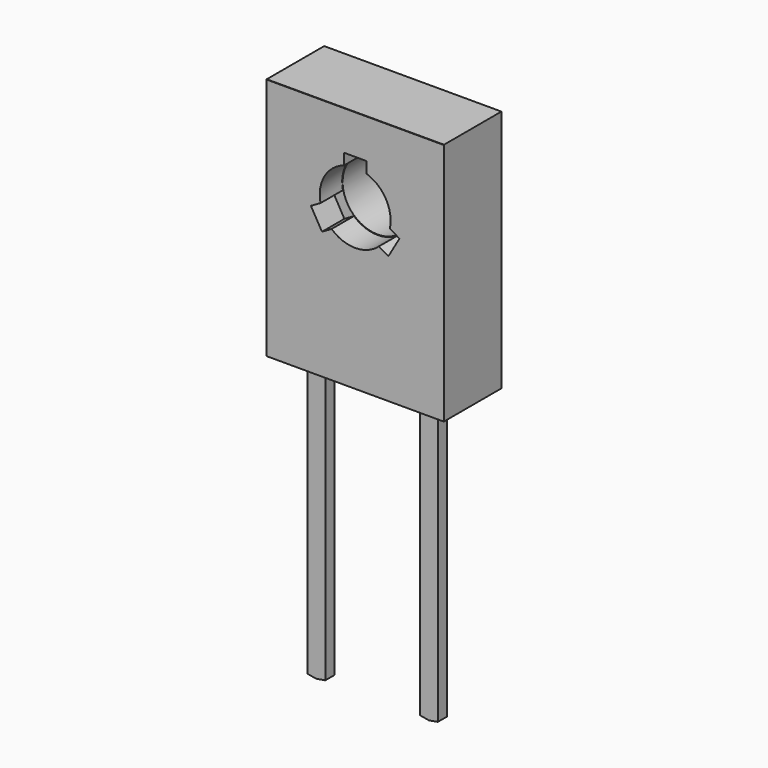
from build123d import *

# Parameters (mm, degrees)
SKETCH005_W     = 7.4
SKETCH005_H     = 10.4
SKETCH005_R     = 1.58
PAD003_DEPTH    = 0.985
PAD001_DEPTH    = 4
POCKET_DEPTH    = 1.35
SKETCH004_R     = 1.6
POCKET001_DEPTH = 3.251
SKETCH006_R     = 2
POCKET002_DEPTH = 0.02
PAD_DEPTH       = 0.2625


with BuildPart() as pad003:
    # Sketch005 → Pad003 (new body, symmetric)
    with BuildSketch(Plane.XZ.offset(-1)):
        with Locations((2.54, 8.4)):
            Rectangle(SKETCH005_W, SKETCH005_H)
        with Locations((2.54, 10.2)):
            Circle(SKETCH005_R, mode=Mode.SUBTRACT)
    extrude(amount=PAD003_DEPTH, both=True)


with BuildPart() as pocket002:
    # Sketch001 → Pad001 (new body, symmetric)
    with BuildSketch(Plane.YZ.offset(2.54)):
        Polygon((0, 3), (-1.25, 3), (-1.25, 13.99), (-1.24, 14), (2, 14), (2, 3), align=None)
    extrude(amount=PAD001_DEPTH, both=True)

    # Sketch003 → Pocket (cut)
    with BuildSketch(Plane(origin=(2.54, -1.25, 0), x_dir=(0, 0, -1), z_dir=(0, -1, 0))):
        with BuildLine():
            Line((-12.219868, 0.5), (-12.219868, -0.5))
            Line((-12.219868, -0.5), (-11.719868, -0.5))
            ThreePointArc((-11.719868, -0.5), (-11, -1.385641), (-9.873078, -1.566245))
            Line((-9.623078, -1.999257), (-9.873078, -1.566245))
            Line((-8.757053, -1.499257), (-9.623078, -1.999257))
            Line((-9.007053, -1.066245), (-8.757053, -1.499257))
            ThreePointArc((-9.007053, -1.066245), (-8.6, 0), (-9.007053, 1.066245))
            Line((-8.757053, 1.499257), (-9.007053, 1.066245))
            Line((-9.623078, 1.999257), (-8.757053, 1.499257))
            Line((-9.873078, 1.566245), (-9.623078, 1.999257))
            ThreePointArc((-9.873078, 1.566245), (-11, 1.385641), (-11.719868, 0.5))
            Line((-12.219868, 0.5), (-11.719868, 0.5))
        make_face()
    extrude(amount=-POCKET_DEPTH, mode=Mode.SUBTRACT)

    # Sketch004 → Pocket001 (cut, through all)
    with BuildSketch(Plane(origin=(2.54, -1.25, 0), x_dir=(0, 0, -1), z_dir=(0, -1, 0))):
        with Locations((-10.2, 0)):
            Circle(SKETCH004_R)
    extrude(amount=-POCKET001_DEPTH, mode=Mode.SUBTRACT)

    # Sketch006 → Pocket002 (cut)
    with BuildSketch(Plane(origin=(2.54, 2, 0), x_dir=(0, 0, 1), z_dir=(0, 1, 0))):
        with BuildLine():
            Line((5.8, 3), (12.2, 3))
            ThreePointArc((13, 2.2), (12.765685, 2.765685), (12.2, 3))
            Line((13, 2.2), (13, -2.2))
            ThreePointArc((12.2, -3), (12.765685, -2.765685), (13, -2.2))
            Line((12.2, -3), (5.8, -3))
            ThreePointArc((5, -2.2), (5.234315, -2.765685), (5.8, -3))
            Line((5, -2.2), (5, 2.2))
            ThreePointArc((5.8, 3), (5.234315, 2.765685), (5, 2.2))
        make_face()
        with Locations((10.2, 0)):
            Circle(SKETCH006_R, mode=Mode.SUBTRACT)
    extrude(amount=-POCKET002_DEPTH, mode=Mode.SUBTRACT)


with BuildPart() as to_126_2_vertical:
    # Sketch → Pad (new body, symmetric)
    with BuildSketch(Plane.XZ):
        Polygon((-0.4, 0.3025), (-0.4, 0), (-0.4, -9.679469), (0, -9.75), (0.4, -9.679469), (0.4, 0), (0.4, 0.3025), (0.4, 3.73), (-0.4, 3.73), align=None)
        Polygon((4.68, 0.3025), (4.68, 0), (4.68, -9.679469), (5.08, -9.75), (5.48, -9.679469), (5.48, 0), (5.48, 0.3025), (5.48, 3.73), (4.68, 3.73), align=None)
    extrude(amount=PAD_DEPTH, both=True)

    add(pad003.part)
    add(pocket002.part)


solid = to_126_2_vertical.part
